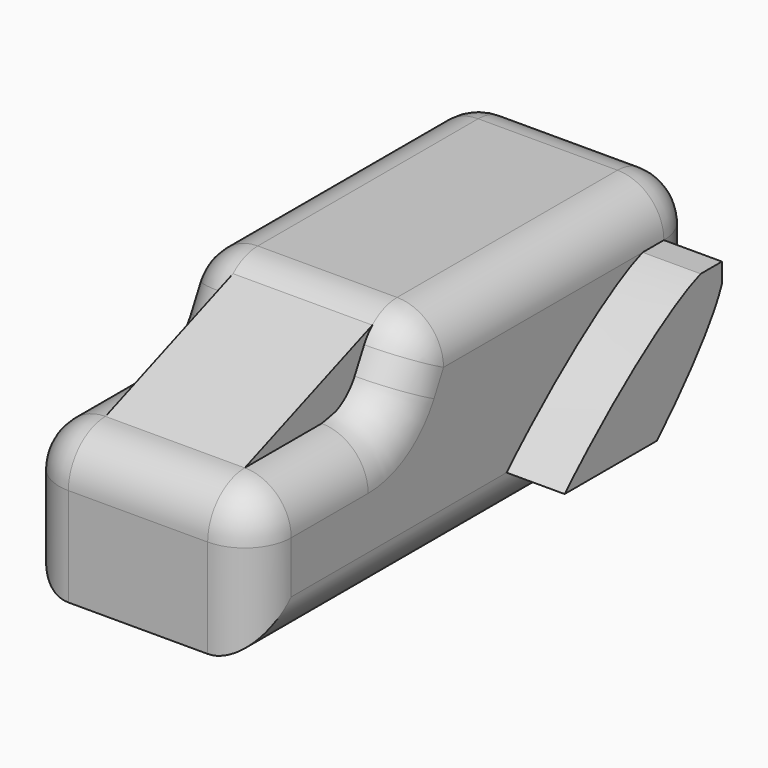
from build123d import *

# Parameters (mm, degrees)
F1_DEPTH   = 25.4
F2_R       = 5.08
F1_FACE_W  = 15.24
F1_FACE_H  = 30.1367967168
F1_FACE1_W = 15.24
F1_FACE1_H = 10.5165233221
F5_DEPTH   = 6.35


with BuildPart() as f1:
    # F0 (on Right) → F1 (new body)
    with BuildSketch(Plane.YZ):
        Polygon((-56.3605315983, 6.1871875077), (-56.3605315983, -9.6700796857), (4.7612222843, -9.6700796857), (4.7612222843, 6.1871875077), (4.7612222843, 14.1358673573), (-33.5322959741, 14.1358673573), (-37.6872867346, 6.1871875077), align=None)
    extrude(amount=F1_DEPTH)

    # F2
    f2_edges = [f1.edges().sort_by_distance(p)[0] for p in [
        (25.4, -56.360532, -1.741446),
        (12.7, -56.360532, 6.187188),
        (0, -56.360532, -1.741446),
        (25.4, -47.023909, 6.187188),
        (25.4, -35.609791, 10.161527),
        (12.7, -33.532296, 14.135867),
        (12.7, -37.687287, 6.187188),
        (25.4, -14.385537, 14.135867),
        (0, -14.385537, 14.135867),
        (12.7, 4.761222, 14.135867),
        (25.4, 4.761222, 2.232894),
        (25.4, -25.799655, -9.67008),
        (0, 4.761222, 2.232894),
        (0, -25.799655, -9.67008),
        (0, -35.609791, 10.161527),
        (0, -47.023909, 6.187188),
    ]]
    fillet(f2_edges, radius=F2_R)

    # F1_face (on face) → F3 section 0
    with BuildSketch(Plane(origin=(12.7, -15.3871760741, 14.1358673573), x_dir=(1, 0, 0), z_dir=(0, 0, 1))):
        Rectangle(F1_FACE_W, F1_FACE_H)
    # F1_face1 (on face) → F3 section 1
    with BuildSketch(Plane(origin=(12.7, -46.0222699373, 6.1871875077), x_dir=(1, 0, 0), z_dir=(0, 0, 1))):
        Rectangle(F1_FACE1_W, F1_FACE1_H)
    loft()

    # F4 (on face) → F5 (join)
    with BuildSketch(Plane.YZ.offset(25.4)):
        with BuildLine():
            Line((-0.3187777157, 9.0558673573), (-3.2266356666, 9.0558673573))
            add(Edge.make_bspline(
                [(-3.2266356666, 9.0558673573), (-10.6613118154, 6.5028903713), (-21.8331213212, -4.5900796857)],
                knots=[0.4644506535, 0.4644506535, 0.4644506535, 1.8030216535, 1.8030216535, 1.8030216535], degree=2, weights=[1, 0.7842651602, 1]))
            Line((-21.8331213212, -4.5900796857), (-9.1981538469, -4.5900796857))
            add(Edge.make_bspline(
                [(-9.1981538469, -4.5900796857), (-1.8305878019, 2.7254934529), (-0.3187777157, 6.9107739232)],
                knots=[4.9446143071, 4.9446143071, 4.9446143071, 5.9063398106, 5.9063398106, 5.9063398106], degree=2, weights=[1, 0.8865961919, 1]))
            Line((-0.3187777157, 6.9107739232), (-0.3187777157, 9.0558673573))
        make_face()
    extrude(amount=F5_DEPTH)


solid = f1.part
